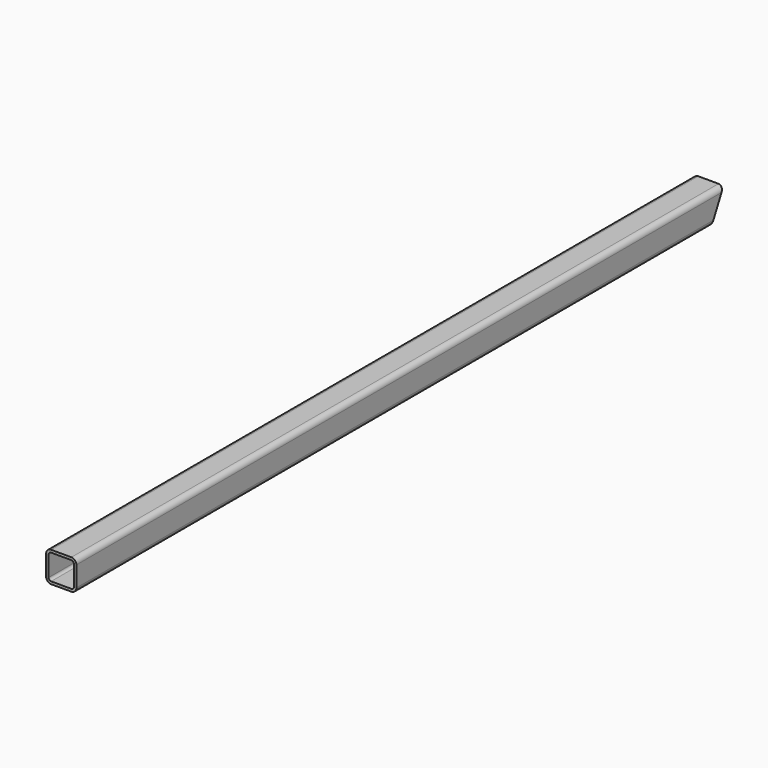
from build123d import *

# Parameters (mm, degrees)
F1_DEPTH = 800
F3_DEPTH = 60.001


with BuildPart() as f1:
    # F0 (on Front) → F1 (new body, symmetric)
    with BuildSketch(Plane.XZ):
        with BuildLine():
            ThreePointArc((30, 20), (27.071068, 27.071068), (20, 30))
            Line((20, 30), (-20, 30))
            ThreePointArc((-20, 30), (-27.071068, 27.071068), (-30, 20))
            Line((-30, 20), (-30, -20))
            ThreePointArc((-30, -20), (-27.071068, -27.071068), (-20, -30))
            Line((-20, -30), (20, -30))
            ThreePointArc((20, -30), (27.071068, -27.071068), (30, -20))
            Line((30, -20), (30, 20))
        make_face()
        with BuildLine():
            ThreePointArc((20, 25), (23.535534, 23.535534), (25, 20))
            Line((25, 20), (25, -20))
            ThreePointArc((25, -20), (23.535534, -23.535534), (20, -25))
            Line((20, -25), (-20, -25))
            ThreePointArc((-20, -25), (-23.535534, -23.535534), (-25, -20))
            Line((-25, -20), (-25, 20))
            ThreePointArc((-25, 20), (-23.535534, 23.535534), (-20, 25))
            Line((-20, 25), (20, 25))
        make_face(mode=Mode.SUBTRACT)
    extrude(amount=F1_DEPTH, both=True)

    # F2 (on face) → F3 (cut, through all)
    with BuildSketch(Plane.YZ.offset(30)):
        Polygon((800, -30), (800, 30), (770, -30), align=None)
    extrude(amount=-F3_DEPTH, mode=Mode.SUBTRACT)


solid = f1.part
